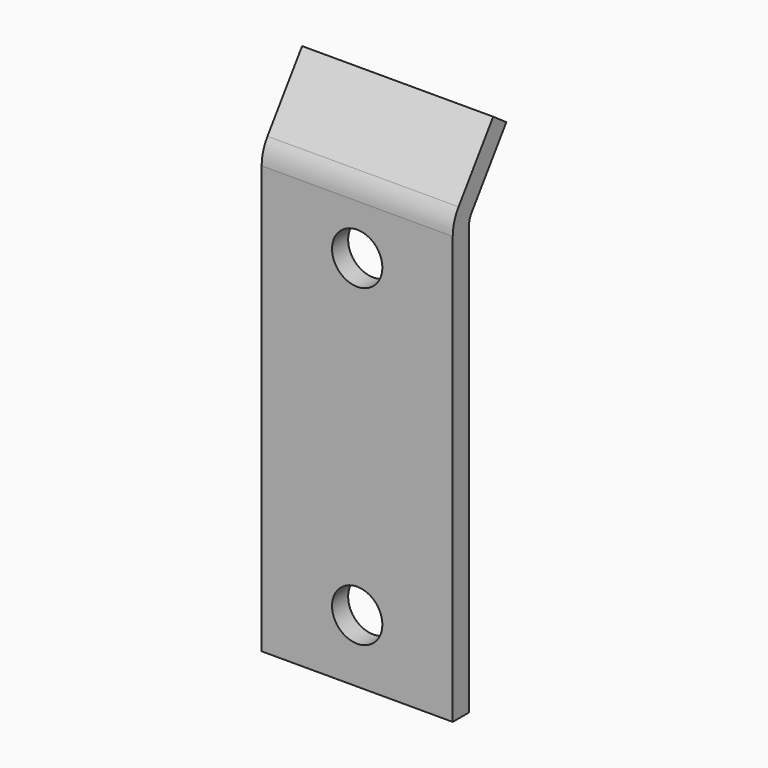
from build123d import *

# Parameters (mm, degrees)
F1_DEPTH = 76
F2_R     = 10
F3_DEPTH = 8.001


with BuildPart() as f1:
    # F0 (on Right) → F1 (new body)
    with BuildSketch(Plane.YZ):
        with BuildLine():
            Line((0, 170), (0, 0))
            Line((0, 0), (8, 0))
            Line((8, 0), (8, 170))
            ThreePointArc((8, 170), (8.370264, 172.405646), (9.446784, 174.588611))
            Line((9.446784, 174.588611), (26.654077, 199.163173))
            Line((26.654077, 199.163173), (20.10086, 203.751784))
            Line((20.10086, 203.751784), (2.893567, 179.177223))
            ThreePointArc((2.893567, 179.177223), (0.740529, 174.811293), (0, 170))
        make_face()
    extrude(amount=F1_DEPTH)

    # F2 (on face) → F3 (cut, through all)
    with BuildSketch(Plane(origin=(0, 8, 0), x_dir=(-1, 0, 0), z_dir=(0, 1, 0))):
        with Locations((-38, 150)):
            Circle(F2_R)
        with Locations((-38, 25)):
            Circle(F2_R)
    extrude(amount=-F3_DEPTH, mode=Mode.SUBTRACT)


solid = f1.part
